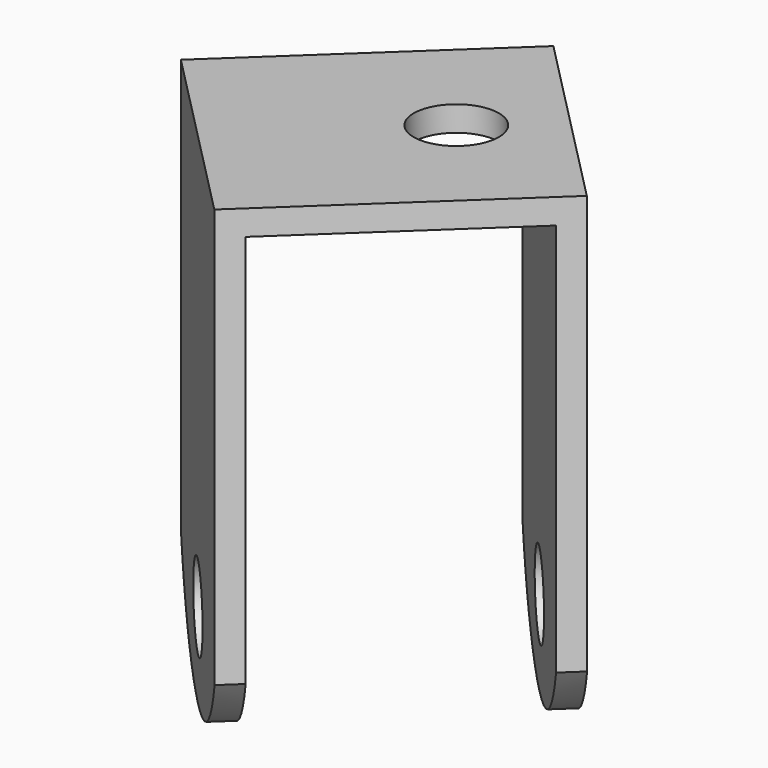
from build123d import *

# Parameters (mm, degrees)
PAD002_DEPTH            = 36
SKETCH006_W             = 69.825363
SKETCH006_H             = 30
POCKET002_DEPTH         = 36.001
SKETCH007_R             = 5
POCKET003_DEPTH         = 36.001
SKETCH008_R             = 5
POCKET004_DEPTH         = 5
BODY002_ROLL_ANGLE      = -90.304991
BODY002_PITCH_ANGLE     = -3.775431
BODY002_PLACEMENT_ANGLE = -46.199273


with BuildPart() as part:
    # Sketch005 → Pad002 (new body)
    with BuildSketch(Plane.XY):
        with BuildLine():
            Line((-18, 0), (18, 0))
            Line((18, 0), (18, 50))
            ThreePointArc((18, 50), (0, 59.792689), (-18, 50))
            Line((-18, 50), (-18, 0))
        make_face()
    extrude(amount=PAD002_DEPTH)

    # Sketch006 (on Face2 of Pad002) → Pocket002 (cut, through all)
    with BuildSketch(Plane.YZ.offset(18)):
        with Locations((37.912681, 18)):
            Rectangle(SKETCH006_W, SKETCH006_H)
    extrude(amount=-POCKET002_DEPTH, mode=Mode.SUBTRACT)

    # Sketch007 (on Face5 of Pocket002) → Pocket003 (cut, through all)
    with BuildSketch(Plane.XY.offset(36)):
        with Locations((0, 49.623631)):
            Circle(SKETCH007_R)
    extrude(amount=-POCKET003_DEPTH, mode=Mode.SUBTRACT)

    # Sketch008 (on Face1 of Pocket003) → Pocket004 (cut)
    with BuildSketch(Plane.XZ):
        with Locations((0, 25)):
            Circle(SKETCH008_R)
    extrude(amount=-POCKET004_DEPTH, mode=Mode.SUBTRACT)


with BuildPart() as part_1:
    # Body002 roll: moved
    add(part.part.rotate(Axis((0, 0, 0), (1, 0, 0)), BODY002_ROLL_ANGLE))


with BuildPart() as part_2:
    # Body002 pitch: moved
    add(part_1.part.rotate(Axis((0, 0, 0), (0, 1, 0)), BODY002_PITCH_ANGLE))


with BuildPart() as part_3:
    # Body002 placement: moved
    add(part_2.part.moved(Location((-19.80148, -78.155877, 488.747301))).rotate(Axis((-19.80148, -78.155877, 488.747301), (0, 0, 1)), BODY002_PLACEMENT_ANGLE))


solid = part_3.part
